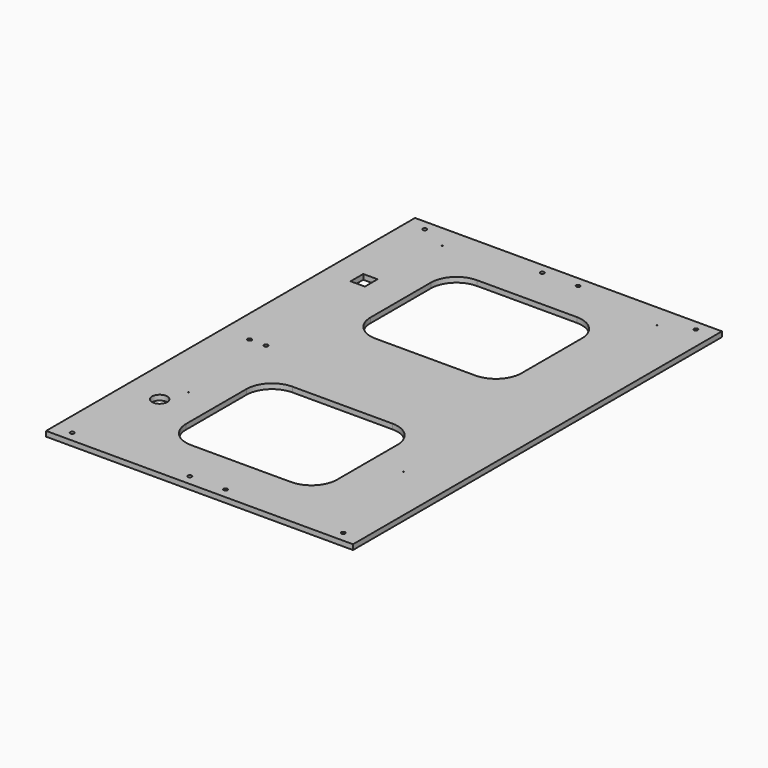
from build123d import *

# Parameters (mm, degrees)
F0_W      = 300
F0_H      = 450.8
F0_R      = 1.9
F2_DEPTH  = 5
F1_R      = 0.5
F3_DEPTH  = 25
F4_W      = 147.6
F4_H      = 123.8
F5_DEPTH  = 25
F6_R      = 25
F7_W      = 14
F7_H      = 15.5
F8_DEPTH  = 25
F9_R      = 7.5
F10_DEPTH = 25
F9_R_2    = 2
F11_DEPTH = 25


with BuildPart() as f2:
    # F0 (on Top) → F2 (new body)
    with BuildSketch(Plane.XY):
        Rectangle(F0_W, F0_H)
        with Locations((-132.5, -215.4)):
            Circle(F0_R, mode=Mode.SUBTRACT)
        with Locations((-17.5, -215.4)):
            Circle(F0_R, mode=Mode.SUBTRACT)
        with BuildLine():
            ThreePointArc((19.4, -215.4), (17.5, -217.3), (15.6, -215.4))
            ThreePointArc((15.6, -215.4), (17.5, -213.5), (19.4, -215.4))
        make_face(mode=Mode.SUBTRACT)
        with Locations((132.5, -215.4)):
            Circle(F0_R, mode=Mode.SUBTRACT)
        with Locations((-132.5, 215.4)):
            Circle(F0_R, mode=Mode.SUBTRACT)
        with Locations((-17.5, 215.4)):
            Circle(F0_R, mode=Mode.SUBTRACT)
        with Locations((17.5, 215.4)):
            Circle(F0_R, mode=Mode.SUBTRACT)
        with Locations((132.5, 215.4)):
            Circle(F0_R, mode=Mode.SUBTRACT)
    extrude(amount=-F2_DEPTH)

    # F1 (on Top) → F3 (cut)
    with BuildSketch(Plane.XY):
        with Locations((-105, 202.4)):
            Circle(F1_R)
        with Locations((105, 202.4)):
            Circle(F1_R)
        with Locations((105, -107.6)):
            Circle(F1_R)
        with Locations((-105, -107.6)):
            Circle(F1_R)
    extrude(amount=-F3_DEPTH, mode=Mode.SUBTRACT)

    # F4 (on face) → F5 (cut)
    with BuildSketch(Plane.XY):
        with Locations((0, 112.7)):
            Rectangle(F4_W, F4_H)
        with Locations((0, -112.7)):
            Rectangle(F4_W, F4_H)
    extrude(amount=-F5_DEPTH, mode=Mode.SUBTRACT)

    # F6
    f6_edges = [f2.edges().sort_by_distance(p)[0] for p in [
        (-73.8, 174.6, -2.5),
        (73.8, 174.6, -2.5),
        (-73.8, 50.8, -2.5),
        (73.8, 50.8, -2.5),
        (-73.8, -50.8, -2.5),
        (73.8, -50.8, -2.5),
        (73.8, -174.6, -2.5),
        (-73.8, -174.6, -2.5),
    ]]
    fillet(f6_edges, radius=F6_R)

    # F7 (on face) → F8 (cut)
    with BuildSketch(Plane.XY):
        with Locations((-116, 120.65)):
            Rectangle(F7_W, F7_H)
    extrude(amount=-F8_DEPTH, mode=Mode.SUBTRACT)

    # F9 (on face) → F10 (cut)
    with BuildSketch(Plane.XY):
        with Locations((-115, -130.4)):
            Circle(F9_R)
    extrude(amount=-F10_DEPTH, mode=Mode.SUBTRACT)

    # F9 (on face) → F11 (cut)
    with BuildSketch(Plane.XY):
        with Locations((-107, -10.4)):
            Circle(F9_R_2)
        with Locations((-123, -10.4)):
            Circle(F9_R_2)
    extrude(amount=-F11_DEPTH, mode=Mode.SUBTRACT)


solid = f2.part
